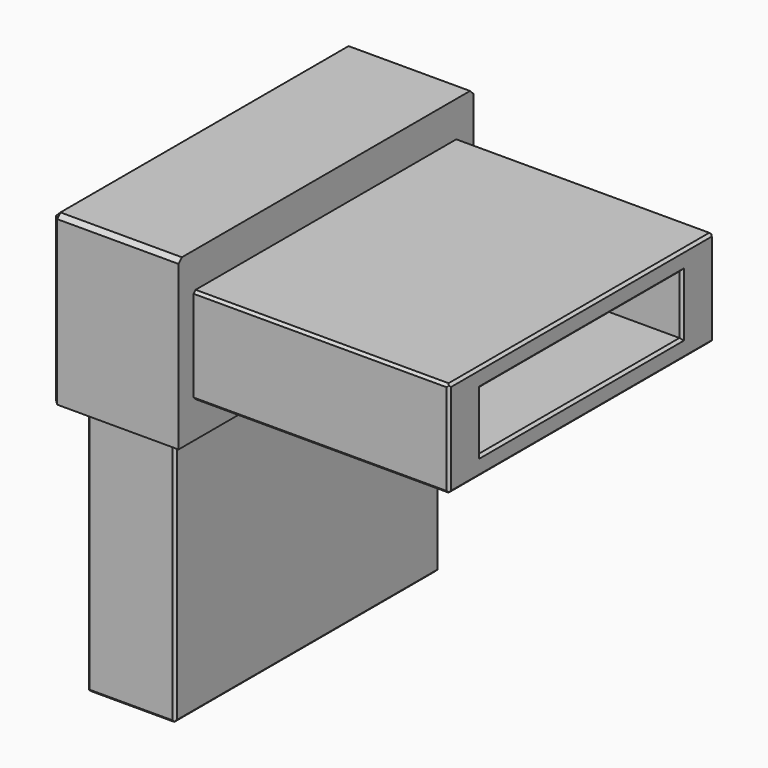
from build123d import *

# Parameters (mm, degrees)
SKETCH068_W             = 44
SKETCH068_H             = 20
PAD035_DEPTH            = 15
SKETCH069_W             = 39.5
SKETCH069_H             = 11.5
PAD036_DEPTH            = 30.5
SKETCH070_W             = 30
SKETCH070_H             = 7
POCKET025_DEPTH         = 41.5
SKETCH071_W             = 39.5
SKETCH071_H             = 10.5
PAD037_DEPTH            = 30.5
SKETCH072_W             = 30
SKETCH072_H             = 7
POCKET026_DEPTH         = 44
FILLET008_R             = 5
FILLET009_R             = 3
CHAMFER039_SIZE         = 0.3
CHAMFER040_SIZE         = 0.5
CHAMFER041_SIZE         = 0.3
BODY013_PLACEMENT_ANGLE = 180


with BuildPart() as part:
    # Sketch068 → Pad035 (new body)
    with BuildSketch(Plane.YZ):
        Rectangle(SKETCH068_W, SKETCH068_H)
    extrude(amount=PAD035_DEPTH)

    # Sketch069 (on DatumPlane) → Pad036 (join)
    with BuildSketch(Plane(origin=(0, 0, 0), x_dir=(0, 1, 0), z_dir=(-1, 0, 0))):
        Rectangle(SKETCH069_W, SKETCH069_H)
    extrude(amount=PAD036_DEPTH)

    # Sketch070 (on Face11 of Pad036) → Pocket025 (cut)
    with BuildSketch(Plane(origin=(-30.5, 0, 0), x_dir=(0, 1, 0), z_dir=(-1, 0, 0))):
        Rectangle(SKETCH070_W, SKETCH070_H)
    extrude(amount=-POCKET025_DEPTH, mode=Mode.SUBTRACT)

    # Sketch071 (on DatumPlane) → Pad037 (join)
    with BuildSketch(Plane.YX.offset(10)):
        with Locations((0, 7.5)):
            Rectangle(SKETCH071_W, SKETCH071_H)
    extrude(amount=PAD037_DEPTH)

    # Sketch072 (on Face16 of Pad037) → Pocket026 (cut)
    with BuildSketch(Plane.YX.offset(40.5)):
        with Locations((0, 7.5)):
            Rectangle(SKETCH072_W, SKETCH072_H)
    extrude(amount=-POCKET026_DEPTH, mode=Mode.SUBTRACT)

    # Fillet008
    fillet008_edges = [part.edges().sort_by_distance(p)[0] for p in [
        (11, 0, 3.5),
    ]]
    fillet(fillet008_edges, radius=FILLET008_R)

    # Fillet009
    fillet009_edges = [part.edges().sort_by_distance(p)[0] for p in [
        (4, 0, -3.5),
    ]]
    fillet(fillet009_edges, radius=FILLET009_R)

    # Chamfer039
    chamfer039_edges = [part.edges().sort_by_distance(p)[0] for p in [
        (-30.5, 0, -5.75),
        (-30.5, -19.75, 0),
        (-30.5, 19.75, 0),
        (-30.5, 0, 5.75),
        (-30.5, 0, -3.5),
        (-30.5, 15, 0),
        (-30.5, 0, 3.5),
        (-30.5, -15, 0),
        (12.75, 0, -40.5),
        (7.5, -19.75, -40.5),
        (7.5, 19.75, -40.5),
        (2.25, 0, -40.5),
        (11, 0, -40.5),
        (7.5, 15, -40.5),
        (4, 0, -40.5),
        (7.5, -15, -40.5),
    ]]
    chamfer(chamfer039_edges, length=CHAMFER039_SIZE)

    # Chamfer040
    chamfer040_edges = [part.edges().sort_by_distance(p)[0] for p in [
        (7.5, -22, 10),
        (15, -22, 0),
        (7.5, 22, 10),
        (15, 22, 0),
        (15, 0, 10),
    ]]
    chamfer(chamfer040_edges, length=CHAMFER040_SIZE)

    # Chamfer041
    chamfer041_edges = [part.edges().sort_by_distance(p)[0] for p in [
        (-15.1, -19.75, 5.75),
        (-15.1, -19.75, -5.75),
        (-15.1, 19.75, 5.75),
        (-15.1, 19.75, -5.75),
        (2.25, 19.75, -25.1),
        (12.75, 19.75, -25.1),
        (12.75, -19.75, -25.1),
        (2.25, -19.75, -25.1),
    ]]
    chamfer(chamfer041_edges, length=CHAMFER041_SIZE)


with BuildPart() as part_1:
    # Body013 placement: moved
    add(part.part.moved(Location((-99, -22, 4))).rotate(Axis((-99, -22, 4), (0, 0, 1)), BODY013_PLACEMENT_ANGLE))


solid = part_1.part
